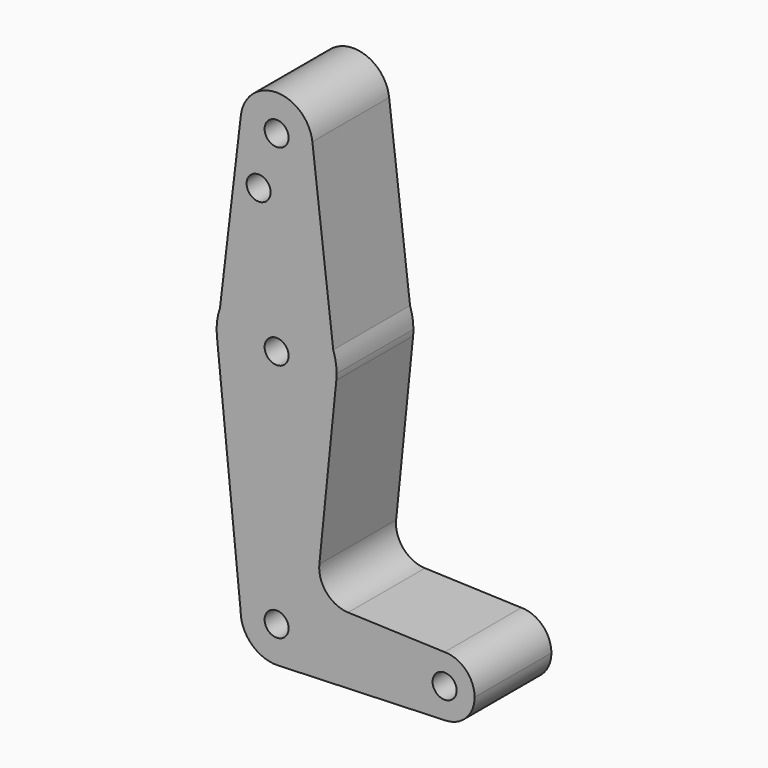
from build123d import *

# Parameters (mm, degrees)
F0_R     = 3.175
F1_DEPTH = 25.4


with BuildPart() as f1:
    # F0 (on Front) → F1 (new body)
    with BuildSketch(Plane.XZ):
        with BuildLine():
            ThreePointArc((44.7334821429, -7.9324362036), (50.1620069047, -5.5115227815), (52.3875, 0))
            ThreePointArc((52.3875, 0), (50.0626600757, 5.6126600757), (44.45, 7.9375))
            ThreePointArc((44.45, 7.9375), (36.5137660501, -0.1417636831), (44.7334821429, -7.9324362036))
        make_face()
        with Locations((44.45, 0)):
            Circle(F0_R, mode=Mode.SUBTRACT)
        with BuildLine():
            ThreePointArc((44.7334821429, -7.9324362036), (36.5137660501, -0.1417636831), (44.45, 7.9375))
            Line((44.45, 7.9375), (18.9322510366, 8.8523612883))
            ThreePointArc((18.9322510366, 8.8523612883), (13.2244578226, 11.5730964697), (11.3073615093, 17.5985462477))
            Line((11.3073615093, 17.5985462477), (15.7942028036, 61.9003804205))
            ThreePointArc((15.7942028036, 61.9003804205), (0, 47.625), (-15.7942028036, 61.9003804205))
            Line((-15.7942028036, 61.9003804205), (-9.525, 0))
            ThreePointArc((-9.525, 0), (0, 9.525), (9.525, 0))
            ThreePointArc((9.525, 0), (6.854408295, -6.6138273281), (0.3401785982, -9.5189234434))
            Line((0.3401785982, -9.5189234434), (44.7334821429, -7.9324362036))
        make_face()
        with BuildLine():
            ThreePointArc((-9.525, 0), (-6.6138273281, -6.854408295), (0.3401785982, -9.5189234434))
            ThreePointArc((0.3401785982, -9.5189234434), (6.854408295, -6.6138273281), (9.525, 0))
            ThreePointArc((9.525, 0), (0, 9.525), (-9.525, 0))
        make_face()
        Circle(F0_R, mode=Mode.SUBTRACT)
        with BuildLine():
            Line((14.9842264132, 68.7429556358), (15.7942028036, 61.9003804205))
            ThreePointArc((15.7942028036, 61.9003804205), (15.8547878338, 62.6991705884), (15.875, 63.5))
            ThreePointArc((15.875, 63.5), (15.6507223365, 66.1590440661), (14.9842264132, 68.7429556358))
        make_face()
        with BuildLine():
            ThreePointArc((-15.7942028036, 61.9003804205), (0, 47.625), (15.7942028036, 61.9003804205))
            Line((15.7942028036, 61.9003804205), (14.9842264132, 68.7429556358))
            ThreePointArc((14.9842264132, 68.7429556358), (0, 79.375), (-14.9842264132, 68.7429556358))
            Line((-14.9842264132, 68.7429556358), (-15.7942028036, 61.9003804205))
        make_face()
        with Locations((0, 63.5)):
            Circle(F0_R, mode=Mode.SUBTRACT)
        with BuildLine():
            ThreePointArc((-14.9842264132, 68.7429556358), (-15.7649337188, 65.3661430393), (-15.7942028036, 61.9003804205))
            Line((-15.7942028036, 61.9003804205), (-14.9842264132, 68.7429556358))
        make_face()
        with BuildLine():
            ThreePointArc((-14.9842264132, 68.7429556358), (0, 79.375), (14.9842264132, 68.7429556358))
            Line((14.9842264132, 68.7429556358), (9.4589602313, 115.4196858236))
            ThreePointArc((9.4589602313, 115.4196858236), (9.5084757244, 114.8608158331), (9.525, 114.3))
            ThreePointArc((9.525, 114.3), (-0.5608158331, 104.7915242756), (-9.4589602313, 115.4196858236))
            Line((-9.4589602313, 115.4196858236), (-14.9842264132, 68.7429556358))
        make_face()
        with Locations((-4.7625, 100.0252)):
            Circle(F0_R, mode=Mode.SUBTRACT)
        with BuildLine():
            ThreePointArc((9.525, 114.3), (9.5084757244, 114.8608158331), (9.4589602313, 115.4196858236))
            ThreePointArc((9.4589602313, 115.4196858236), (0, 123.825), (-9.4589602313, 115.4196858236))
            ThreePointArc((-9.4589602313, 115.4196858236), (-0.5608158331, 104.7915242756), (9.525, 114.3))
        make_face()
        with Locations((0, 114.3)):
            Circle(F0_R, mode=Mode.SUBTRACT)
    extrude(amount=F1_DEPTH)


solid = f1.part
